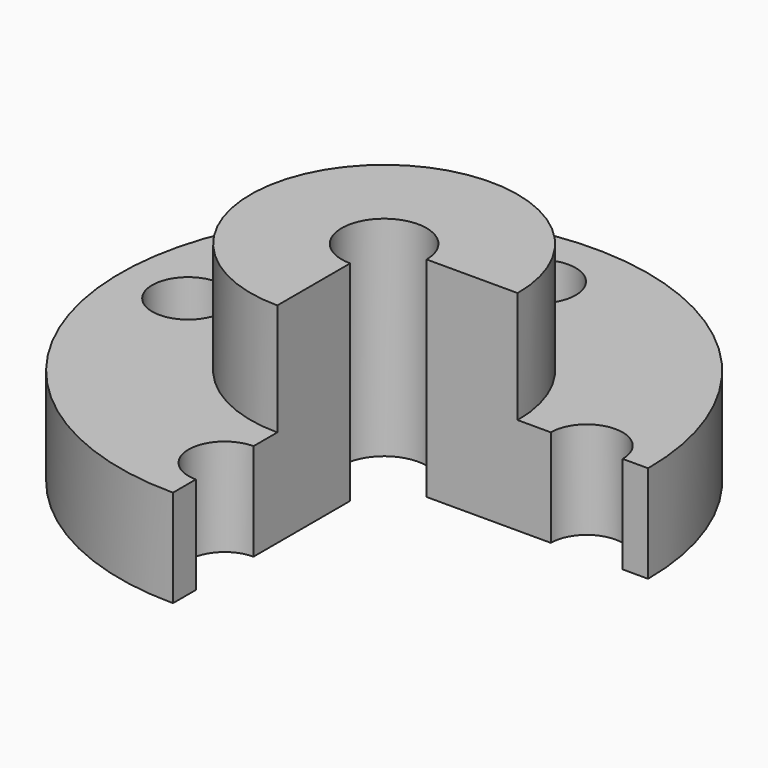
from build123d import *

# Parameters (mm, degrees)
F1_ANGLE = 270
F2_R     = 5.891602
F2_R_2   = 5.731059
F2_R_3   = 5.749463
F3_DEPTH = 25


with BuildPart() as f1:
    # F0 (on Front) → F1 (revolve)
    with BuildSketch(Plane.XZ):
        Polygon((6.768869, 15.518869), (6.768869, 0), (42.099062, 0), (42.099062, 15.518869), (21.297172, 15.518869), (21.297172, 33.34906), (6.768869, 33.34906), align=None)
    revolve(axis=Axis((0, 0, 14.268859), (0, 0, 1)), revolution_arc=F1_ANGLE)

    # F2 (on face) → F3 (cut)
    with BuildSketch(Plane.XY.offset(15.518869)):
        with Locations((0, 30.819608)):
            Circle(F2_R)
        with Locations((-31.250775, 0)):
            Circle(F2_R_2)
        with Locations((0, -31.783216)):
            Circle(F2_R_3)
        with Locations((32.310251, 0)):
            Circle(F2_R_2)
    extrude(amount=-F3_DEPTH, mode=Mode.SUBTRACT)


solid = f1.part
